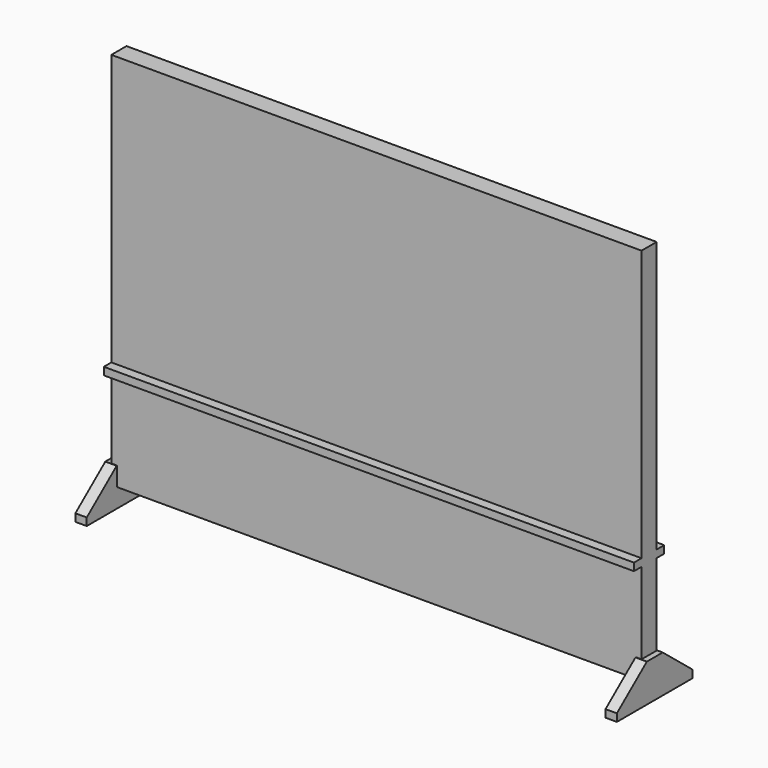
from build123d import *

# Parameters (mm, degrees)
F0_W          = 6.35
F0_H          = 127
F1_DEPTH      = 177.8
F2_W          = 3.81
F2_H          = 12.7
F3_DEPTH      = 12.7
F3_DEPTH_BACK = 19.05
F4_SIZE2      = 12.5465551104
F4_SIZE       = 10.16
F4_2_SIZE2    = 12.5465551104
F4_2_SIZE     = 10.16
F4_3_SIZE2    = 12.5465551104
F4_3_SIZE     = 10.16
F5_SIZE2      = 12.5465551104
F5_SIZE       = 10.16
F7_DEPTH      = 177.8


with BuildPart() as f1:
    # F0 (on Right) → F1 (new body)
    with BuildSketch(Plane.YZ):
        Rectangle(F0_W, F0_H)
    extrude(amount=F1_DEPTH)

    # F2 (on face) → F3 (join, two sides)
    with BuildSketch(Plane.XZ.offset(3.175)) as f3_sk:
        with Locations((0, -63.5)):
            Rectangle(F2_W, F2_H)
        with Locations((177.8, -63.5)):
            Rectangle(F2_W, F2_H)
    extrude(amount=F3_DEPTH)
    extrude(f3_sk.sketch, amount=-F3_DEPTH_BACK)

    # F4
    f4_edges = [f1.edges().sort_by_distance(p)[0] for p in [
        (177.8, -15.875, -57.15),
    ]]
    f4_side = f1.faces().sort_by_distance((177.8, -15.875, -63.5))[0]
    chamfer(f4_edges, length=F4_SIZE, length2=F4_SIZE2, reference=f4_side)

    # F4#2
    f4_2_edges = [f1.edges().sort_by_distance(p)[0] for p in [
        (177.8, 15.875, -57.15),
    ]]
    f4_2_side = f1.faces().sort_by_distance((177.8, 15.875, -63.5))[0]
    chamfer(f4_2_edges, length=F4_2_SIZE, length2=F4_2_SIZE2, reference=f4_2_side)

    # F4#3
    f4_3_edges = [f1.edges().sort_by_distance(p)[0] for p in [
        (0, -15.875, -57.15),
    ]]
    f4_3_side = f1.faces().sort_by_distance((0, -15.875, -63.5))[0]
    chamfer(f4_3_edges, length=F4_3_SIZE, length2=F4_3_SIZE2, reference=f4_3_side)

    # F5
    f5_edges = [f1.edges().sort_by_distance(p)[0] for p in [
        (0, 15.875, -57.15),
    ]]
    f5_side = f1.faces().sort_by_distance((0, 15.875, -63.5))[0]
    chamfer(f5_edges, length=F5_SIZE, length2=F5_SIZE2, reference=f5_side)

    # F6 (on face) → F7 (join)
    with BuildSketch(Plane.YZ.offset(177.8)):
        Polygon((6.35, -27.305), (0, -27.305), (0, -28.575), (0, -29.845), (6.35, -29.845), align=None)
        Polygon((0, -28.575), (0, -27.305), (-6.35, -27.305), (-6.35, -29.845), (0, -29.845), align=None)
    extrude(amount=-F7_DEPTH)


solid = f1.part
